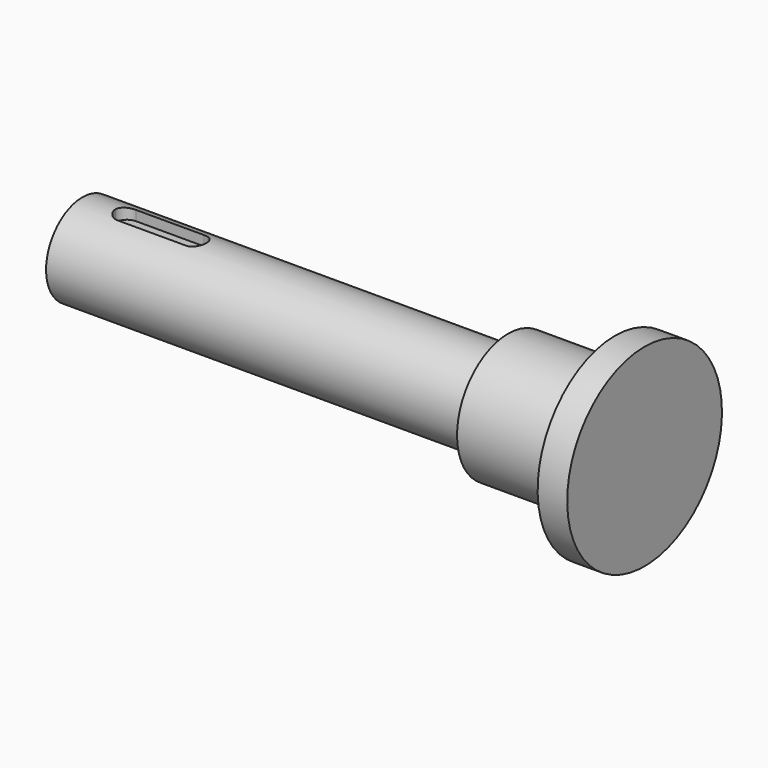
from build123d import *

# Parameters (mm, degrees)
F0_W     = 187
F0_H     = 20
F3_DEPTH = 100
F4_DEPTH = 85


with BuildPart() as f1:
    # F0 (on Front) → F1 (revolve)
    with BuildSketch(Plane.XZ):
        Polygon((47, 28), (47, 0), (60, 0), (60, 42.5), (47, 42.5), align=None)
        with Locations((-93.5, 10)):
            Rectangle(F0_W, F0_H)
        Polygon((0, 20), (0, 0), (47, 0), (47, 28), (0, 28), align=None)
    revolve(axis=Axis((-82.005277276, 0, 0), (-1, 0, 0)))

    # F2 (on Top) → F3 (join)
    with BuildSketch(Plane.XY):
        with BuildLine():
            ThreePointArc((-167.5, 5), (-171.0355339059, 3.5355339059), (-172.5, 0))
            Line((-172.5, 0), (-167.5, 0))
            Line((-167.5, 0), (-162.5, 0))
            ThreePointArc((-162.5, 0), (-163.9644660941, 3.5355339059), (-167.5, 5))
        make_face()
        with BuildLine():
            Line((-167.5, 0), (-172.5, 0))
            ThreePointArc((-172.5, 0), (-171.0355339059, -3.5355339059), (-167.5, -5))
            ThreePointArc((-167.5, -5), (-163.9644660941, -3.5355339059), (-162.5, 0))
            Line((-162.5, 0), (-167.5, 0))
        make_face()
        with BuildLine():
            Line((-137.5, 5), (-167.5, 5))
            ThreePointArc((-167.5, 5), (-163.9644660941, 3.5355339059), (-162.5, 0))
            Line((-162.5, 0), (-142.5, 0))
            ThreePointArc((-142.5, 0), (-141.0355339059, 3.5355339059), (-137.5, 5))
        make_face()
        with BuildLine():
            ThreePointArc((-162.5, 0), (-163.9644660941, -3.5355339059), (-167.5, -5))
            Line((-167.5, -5), (-137.5, -5))
            ThreePointArc((-137.5, -5), (-141.0355339059, -3.5355339059), (-142.5, 0))
            Line((-142.5, 0), (-162.5, 0))
        make_face()
        with BuildLine():
            Line((-137.5, 0), (-137.5, 5))
            ThreePointArc((-137.5, 5), (-141.0355339059, 3.5355339059), (-142.5, 0))
            Line((-142.5, 0), (-137.5, 0))
        make_face()
        with BuildLine():
            ThreePointArc((-132.5, 0), (-133.9644660941, 3.5355339059), (-137.5, 5))
            Line((-137.5, 5), (-137.5, 0))
            Line((-137.5, 0), (-137.5, -5))
            ThreePointArc((-137.5, -5), (-133.9644660941, -3.5355339059), (-132.5, 0))
        make_face()
        with BuildLine():
            ThreePointArc((-142.5, 0), (-141.0355339059, -3.5355339059), (-137.5, -5))
            Line((-137.5, -5), (-137.5, 0))
            Line((-137.5, 0), (-142.5, 0))
        make_face()
    extrude(amount=F3_DEPTH)

    # F4 (cut): a face of the model
    f4_faces = [f1.faces().sort_by_distance(p)[0] for p in [
        (-152.5, 0, 100),
    ]]
    extrude(f4_faces, amount=-F4_DEPTH, mode=Mode.SUBTRACT)


solid = f1.part
